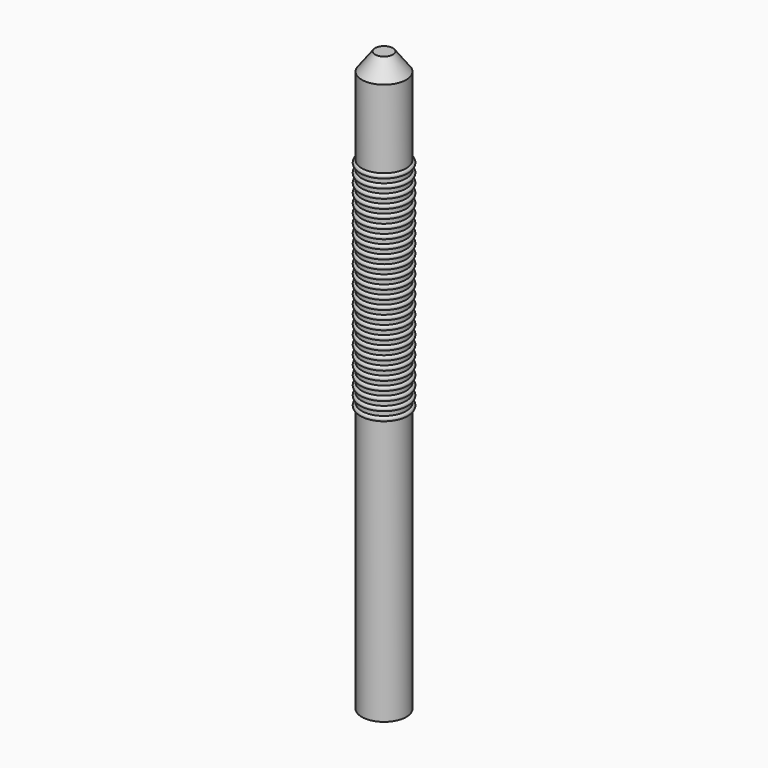
from build123d import *

# Parameters (mm, degrees)
F0_R     = 2.5
F1_DEPTH = 65
F4_SIZE2 = 2
F4_SIZE  = 1.5


with BuildPart() as f1:
    # F0 (on Top) → F1 (new body)
    with BuildSketch(Plane.XY):
        Circle(F0_R)
    extrude(amount=F1_DEPTH)

    # F2 (on Front) → F3 (revolve)
    with BuildSketch(Plane.XZ):
        with BuildLine():
            Line((2.5, 30.25), (2.5, 29.75))
            ThreePointArc((2.5, 29.75), (2.75, 30), (2.5, 30.25))
        make_face()
        with BuildLine():
            Line((2.5, 31.25), (2.5, 30.75))
            ThreePointArc((2.5, 30.75), (2.75, 31), (2.5, 31.25))
        make_face()
        with BuildLine():
            Line((2.5, 32.25), (2.5, 31.75))
            ThreePointArc((2.5, 31.75), (2.75, 32), (2.5, 32.25))
        make_face()
        with BuildLine():
            Line((2.5, 33.25), (2.5, 32.75))
            ThreePointArc((2.5, 32.75), (2.75, 33), (2.5, 33.25))
        make_face()
        with BuildLine():
            Line((2.5, 34.25), (2.5, 33.75))
            ThreePointArc((2.5, 33.75), (2.75, 34), (2.5, 34.25))
        make_face()
        with BuildLine():
            Line((2.5, 35.25), (2.5, 34.75))
            ThreePointArc((2.5, 34.75), (2.75, 35), (2.5, 35.25))
        make_face()
        with BuildLine():
            Line((2.5, 36.25), (2.5, 35.75))
            ThreePointArc((2.5, 35.75), (2.75, 36), (2.5, 36.25))
        make_face()
        with BuildLine():
            Line((2.5, 37.25), (2.5, 36.75))
            ThreePointArc((2.5, 36.75), (2.75, 37), (2.5, 37.25))
        make_face()
        with BuildLine():
            Line((2.5, 38.25), (2.5, 37.75))
            ThreePointArc((2.5, 37.75), (2.75, 38), (2.5, 38.25))
        make_face()
        with BuildLine():
            Line((2.5, 39.25), (2.5, 38.75))
            ThreePointArc((2.5, 38.75), (2.75, 39), (2.5, 39.25))
        make_face()
        with BuildLine():
            Line((2.5, 40.25), (2.5, 39.75))
            ThreePointArc((2.5, 39.75), (2.75, 40), (2.5, 40.25))
        make_face()
        with BuildLine():
            Line((2.5, 41.25), (2.5, 40.75))
            ThreePointArc((2.5, 40.75), (2.75, 41), (2.5, 41.25))
        make_face()
        with BuildLine():
            Line((2.5, 42.25), (2.5, 41.75))
            ThreePointArc((2.5, 41.75), (2.75, 42), (2.5, 42.25))
        make_face()
        with BuildLine():
            Line((2.5, 43.25), (2.5, 42.75))
            ThreePointArc((2.5, 42.75), (2.75, 43), (2.5, 43.25))
        make_face()
        with BuildLine():
            Line((2.5, 44.25), (2.5, 43.75))
            ThreePointArc((2.5, 43.75), (2.75, 44), (2.5, 44.25))
        make_face()
        with BuildLine():
            Line((2.5, 45.25), (2.5, 44.75))
            ThreePointArc((2.5, 44.75), (2.75, 45), (2.5, 45.25))
        make_face()
        with BuildLine():
            Line((2.5, 46.25), (2.5, 45.75))
            ThreePointArc((2.5, 45.75), (2.75, 46), (2.5, 46.25))
        make_face()
        with BuildLine():
            Line((2.5, 47.25), (2.5, 46.75))
            ThreePointArc((2.5, 46.75), (2.75, 47), (2.5, 47.25))
        make_face()
        with BuildLine():
            Line((2.5, 48.25), (2.5, 47.75))
            ThreePointArc((2.5, 47.75), (2.75, 48), (2.5, 48.25))
        make_face()
        with BuildLine():
            Line((2.5, 49.25), (2.5, 48.75))
            ThreePointArc((2.5, 48.75), (2.75, 49), (2.5, 49.25))
        make_face()
        with BuildLine():
            Line((2.5, 50.25), (2.5, 49.75))
            ThreePointArc((2.5, 49.75), (2.75, 50), (2.5, 50.25))
        make_face()
        with BuildLine():
            Line((2.5, 51.25), (2.5, 50.75))
            ThreePointArc((2.5, 50.75), (2.75, 51), (2.5, 51.25))
        make_face()
        with BuildLine():
            Line((2.5, 52.25), (2.5, 51.75))
            ThreePointArc((2.5, 51.75), (2.75, 52), (2.5, 52.25))
        make_face()
        with BuildLine():
            Line((2.5, 53.25), (2.5, 52.75))
            ThreePointArc((2.5, 52.75), (2.75, 53), (2.5, 53.25))
        make_face()
        with BuildLine():
            Line((2.5, 54.25), (2.5, 53.75))
            ThreePointArc((2.5, 53.75), (2.75, 54), (2.5, 54.25))
        make_face()
    revolve(axis=Axis((0, 0, 29.9090761691), (0, 0, 1)))

    # F4
    f4_edges = [f1.edges().sort_by_distance(p)[0] for p in [
        (-2.5, 0, 65),
    ]]
    f4_side = f1.faces().sort_by_distance((0, 0, 65))[0]
    chamfer(f4_edges, length=F4_SIZE, length2=F4_SIZE2, reference=f4_side)


solid = f1.part
